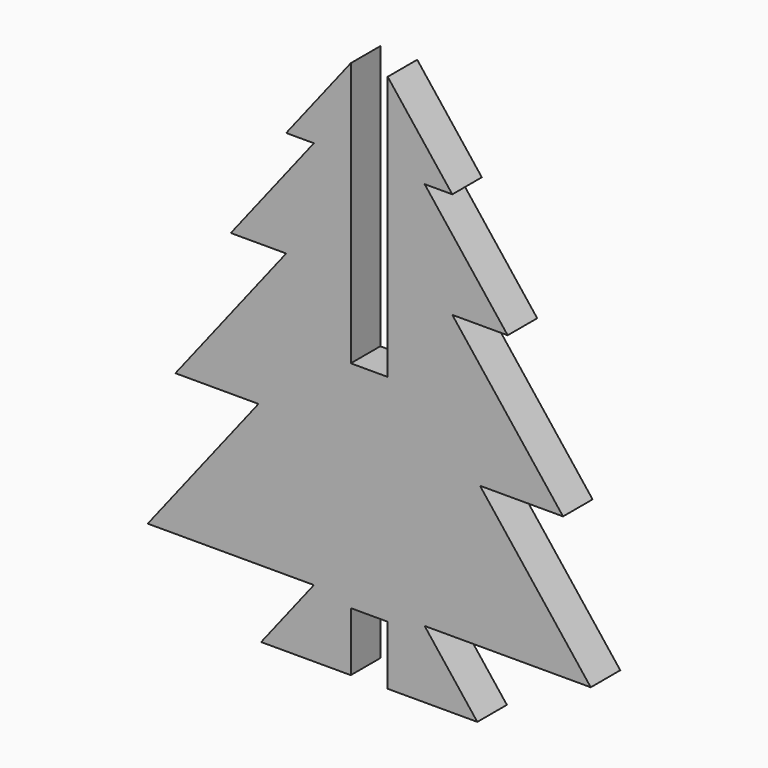
from build123d import *

# Parameters (mm, degrees)
F0_W     = 7.5035672322
F0_H     = 9.1249096662
F1_DEPTH = 5
F2_W     = 2.5
F2_H     = 8
F3_DEPTH = 25


with BuildPart() as f1:
    # F0 (on Front) → F1 (new body)
    with BuildSketch(Plane.XZ):
        Polygon((-11.4583398516, 33.2676629014), (-0.2029890033, 33.2676629014), (11.052361845, 33.2676629014), (18.5559290771, 33.2676629014), (7.3005782289, 47.6408965444), (-7.7065562355, 47.6408965444), (-18.9619070838, 33.2676629014), align=None)
        Polygon((-7.7065562355, 47.6408965444), (7.3005782289, 47.6408965444), (11.052361845, 47.6408965444), (-0.2029890033, 62.0141301873), (-11.4583398516, 47.6408965444), align=None)
        Polygon((-15.2101234677, 14.1033513774), (-0.2029890033, 14.1033513774), (-0.2029890033, 33.2676629014), (-11.4583398516, 33.2676629014), (-26.4654743159, 14.1033513774), align=None)
        Polygon((-0.2029890033, 33.2676629014), (-0.2029890033, 14.1033513774), (14.8041454611, 14.1033513774), (26.0594963093, 14.1033513774), (11.052361845, 33.2676629014), align=None)
        Polygon((-7.7065562355, -5.0609601465), (-0.2029890033, -5.0609601465), (-0.2029890033, 14.1033513774), (-15.2101234677, 14.1033513774), (-30.217257932, -5.0609601465), align=None)
        Polygon((-0.2029890033, 14.1033513774), (-0.2029890033, -5.0609601465), (7.3005782289, -5.0609601465), (29.8112799254, -5.0609601465), (14.8041454611, 14.1033513774), align=None)
        Polygon((-14.8520644978, -14.1858698127), (-7.7065562355, -14.1858698127), (-7.7065562355, -5.0609601465), align=None)
        with Locations((-3.9547726194, -9.6234149796)):
            Rectangle(F0_W, F0_H)
        with Locations((3.5487946128, -9.6234149796)):
            Rectangle(F0_W, F0_H)
        Polygon((7.3005782289, -5.0609601465), (7.3005782289, -14.1858698127), (14.4460864912, -14.1858698127), align=None)
    extrude(amount=F1_DEPTH)

    # F2 (on face) → F3 (cut)
    with BuildSketch(Plane.XZ.offset(5)):
        Polygon((-0.2029890033, 23.0141301873), (-0.2029890033, 62.0141301873), (-2.7029890033, 58.8215967344), (-2.7029890033, 23.0141301873), align=None)
        Polygon((2.2970109967, 58.8215967344), (-0.2029890033, 62.0141301873), (-0.2029890033, 23.0141301873), (2.2970109967, 23.0141301873), align=None)
        with Locations((-1.4529890033, -10.1858698127)):
            Rectangle(F2_W, F2_H)
        with Locations((1.0470109967, -10.1858698127)):
            Rectangle(F2_W, F2_H)
    extrude(amount=-F3_DEPTH, mode=Mode.SUBTRACT)


solid = f1.part
